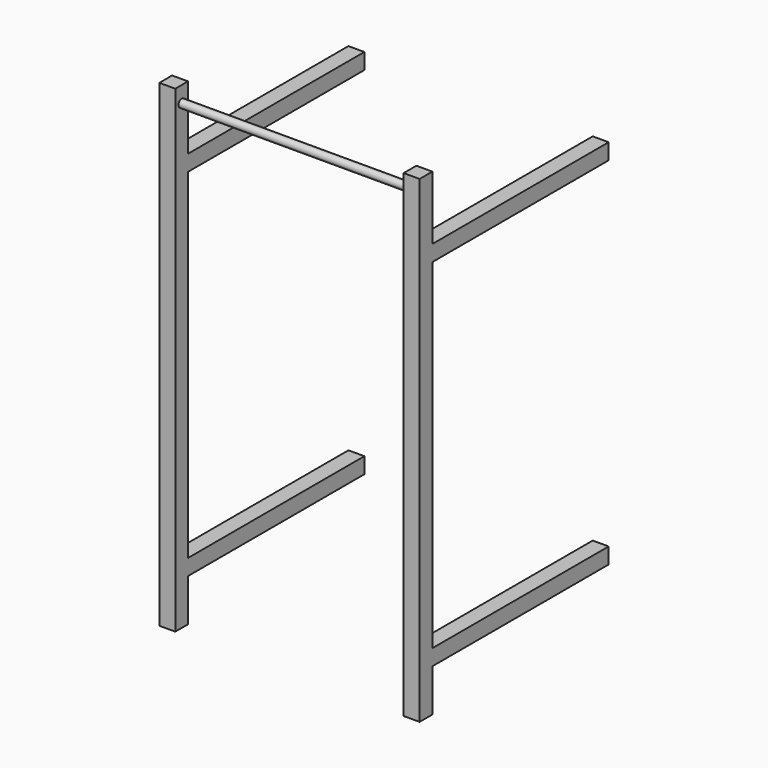
from build123d import *

# Parameters (mm, degrees)
F0_W     = 76.2
F0_H     = 76.2
F1_DEPTH = 2286
F2_W     = 76.2
F2_H     = 76.2
F3_DEPTH = 1054.1
F4_R     = 19.05
F5_DEPTH = 1092.2


with BuildPart() as f1:
    # F0 (on Top) → F1 (new body)
    with BuildSketch(Plane.XY):
        with Locations((-584.2, -1092.2)):
            Rectangle(F0_W, F0_H)
    extrude(amount=F1_DEPTH)

    # F2 (on Front) → F3 (join, through all)
    with BuildSketch(Plane.XZ):
        with Locations((-584.2, 1943.1)):
            Rectangle(F2_W, F2_H)
        with Locations((-584.2, 241.3)):
            Rectangle(F2_W, F2_H)
    extrude(amount=F3_DEPTH)


with BuildPart() as f1b:
    # F0 (on Top) → F1, piece 2 (new body)
    with BuildSketch(Plane.XY):
        with Locations((584.2, -1092.2)):
            Rectangle(F0_W, F0_H)
    extrude(amount=F1_DEPTH)

    # F2 (on Front) → F3, piece 2 (join, through all)
    with BuildSketch(Plane.XZ):
        with Locations((584.2, 1943.1)):
            Rectangle(F2_W, F2_H)
        with Locations((584.2, 241.3)):
            Rectangle(F2_W, F2_H)
    extrude(amount=F3_DEPTH)


with BuildPart() as f5:
    # F4 (on face) → F5 (new body, through all)
    with BuildSketch(Plane.YZ.offset(-546.1)):
        with Locations((-1092.2, 2209.8)):
            Circle(F4_R)
    extrude(amount=F5_DEPTH)


solid = Compound([f1.part, f1b.part, f5.part])
